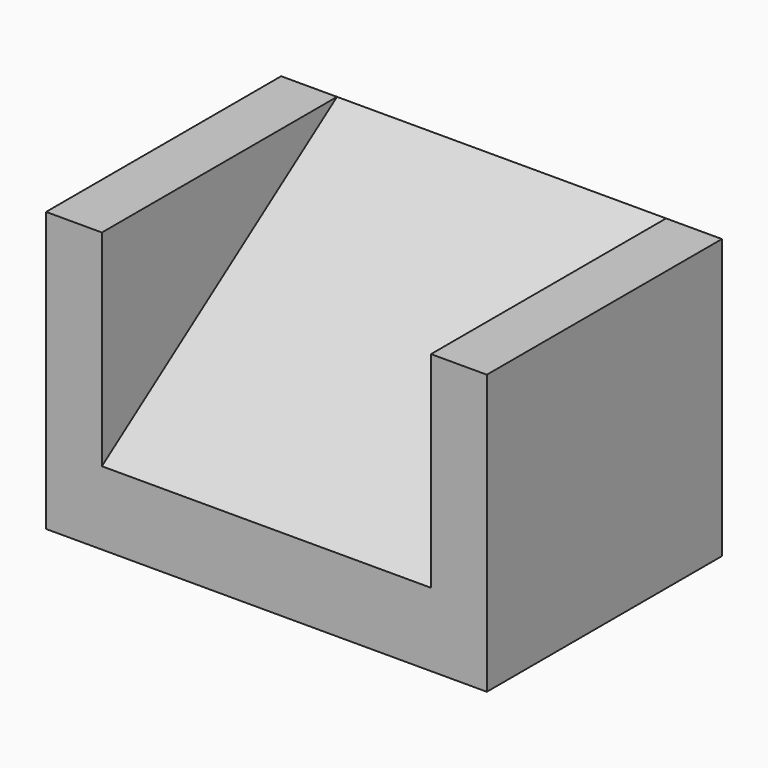
from build123d import *

# Parameters (mm, degrees)
F0_W     = 75
F0_H     = 47.5
F1_DEPTH = 50
F3_W     = 56
F3_H     = 40
F4_DEPTH = 68.203483


with BuildPart() as f1:
    # F0 (on Front) → F1 (new body)
    with BuildSketch(Plane.XZ):
        with Locations((37.5, 23.75)):
            Rectangle(F0_W, F0_H)
    extrude(amount=F1_DEPTH)

    # F3 (on face) → F4 (cut, through all)
    with BuildSketch(Plane(origin=(0, 22.3177, 15.627022), x_dir=(-1, 0, 0), z_dir=(0, 0.819152, 0.573576))):
        with Locations((-37.5, 58.909722)):
            Rectangle(F3_W, F3_H)
    extrude(amount=-F4_DEPTH, mode=Mode.SUBTRACT)


solid = f1.part
